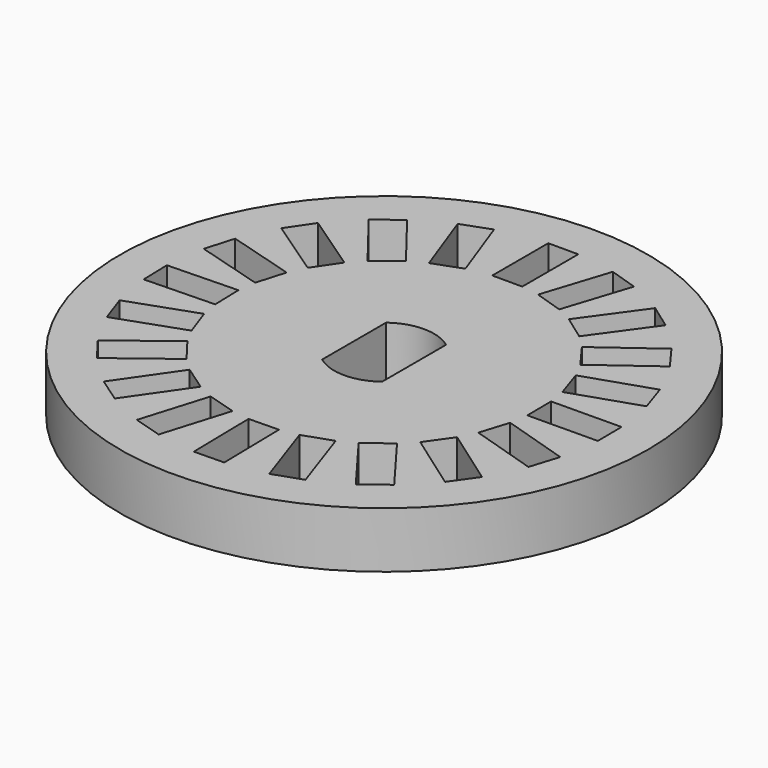
from build123d import *

# Parameters (mm, degrees)
F0_R     = 13.2
F0_W     = 1.5
F0_H     = 3.5
F1_DEPTH = 2.8


with BuildPart() as f1:
    # F0 (on Top) → F1 (new body)
    with BuildSketch(Plane.XY):
        Circle(F0_R)
        Polygon((-5.765517, -9.631268), (-6.998184, -8.776555), (-5.003855, -5.900333), (-3.771189, -6.755045), align=None, mode=Mode.SUBTRACT)
        Polygon((-2.527204, -10.936898), (-3.962865, -10.502295), (-2.948791, -7.152421), (-1.513131, -7.587024), align=None, mode=Mode.SUBTRACT)
        Polygon((-8.445988, -7.393766), (-9.356395, -6.201643), (-6.574773, -4.07736), (-5.664366, -5.269484), align=None, mode=Mode.SUBTRACT)
        Polygon((-10.30927, -4.440883), (-10.809331, -3.026691), (-7.50955, -1.859883), (-7.009489, -3.274075), align=None, mode=Mode.SUBTRACT)
        Polygon((-11.175082, -1.058324), (-11.216413, 0.441107), (-7.717742, 0.537547), (-7.676411, -0.961884), align=None, mode=Mode.SUBTRACT)
        Polygon((0.955627, -11.184332), (-0.54412, -11.211888), (-0.608418, -7.712479), (0.891329, -7.684922), align=None, mode=Mode.SUBTRACT)
        Polygon((4.345997, -10.349629), (2.927271, -10.836678), (1.790823, -7.526317), (3.209549, -7.039268), align=None, mode=Mode.SUBTRACT)
        Polygon((7.315871, -8.51355), (6.115435, -9.412968), (4.016793, -6.611949), (5.21723, -5.712531), align=None, mode=Mode.SUBTRACT)
        Polygon((9.5779, -5.853745), (8.711901, -7.078508), (5.85412, -5.057844), (6.720119, -3.83308), align=None, mode=Mode.SUBTRACT)
        Polygon((10.913222, -2.627562), (10.46545, -4.05917), (7.125032, -3.014368), (7.572805, -1.58276), align=None, mode=Mode.SUBTRACT)
        Polygon((-10.959651, 2.426634), (-10.538254, 3.866225), (-7.179207, 2.882966), (-7.600603, 1.443374), align=None, mode=Mode.SUBTRACT)
        Polygon((-9.683822, 5.676803), (-8.840469, 6.917269), (-5.946049, 4.949445), (-6.789402, 3.708979), align=None, mode=Mode.SUBTRACT)
        Polygon((-7.471038, 8.377714), (-6.287327, 9.299033), (-4.137583, 6.537041), (-5.321293, 5.615722), align=None, mode=Mode.SUBTRACT)
        Polygon((-4.535395, 10.268042), (-3.125856, 10.781072), (-1.928786, 7.492148), (-3.338325, 6.979118), align=None, mode=Mode.SUBTRACT)
        with BuildLine():
            ThreePointArc((1.5, 2), (2.236068, 1.118034), (2.5, 0))
            ThreePointArc((2.5, 0), (2.236068, -1.118034), (1.5, -2))
            ThreePointArc((1.5, -2), (0, -2.5), (-1.5, -2))
            ThreePointArc((-1.5, -2), (-2.5, 0), (-1.5, 2))
            ThreePointArc((-1.5, 2), (0, 2.5), (1.5, 2))
        make_face(mode=Mode.SUBTRACT)
        Polygon((11.192638, 0.852849), (11.206417, -0.647087), (7.706564, -0.679238), (7.692786, 0.820699), align=None, mode=Mode.SUBTRACT)
        Polygon((10.389113, 4.250744), (10.86311, 2.827604), (7.54245, 1.721612), (7.068453, 3.144752), align=None, mode=Mode.SUBTRACT)
        Polygon((8.580393, 7.237359), (9.468746, 6.028711), (6.648568, 3.955888), (5.760215, 5.164535), align=None, mode=Mode.SUBTRACT)
        with Locations((0, 9.45)):
            Rectangle(F0_W, F0_H, mode=Mode.SUBTRACT)
        Polygon((2.727698, 10.888625), (4.155132, 10.427722), (3.07969, 7.097042), (1.652256, 7.557946), align=None, mode=Mode.SUBTRACT)
        Polygon((5.941479, 9.523725), (7.158235, 8.646512), (5.111405, 5.807412), (3.894648, 6.684625), align=None, mode=Mode.SUBTRACT)
        with BuildLine():
            Line((-1.5, -2), (-1.5, 2))
            ThreePointArc((-1.5, 2), (-2.5, 0), (-1.5, -2))
        make_face()
        with BuildLine():
            ThreePointArc((1.5, -2), (2.236068, -1.118034), (2.5, 0))
            ThreePointArc((2.5, 0), (2.236068, 1.118034), (1.5, 2))
            Line((1.5, 2), (1.5, -2))
        make_face()
    extrude(amount=F1_DEPTH)


solid = f1.part
